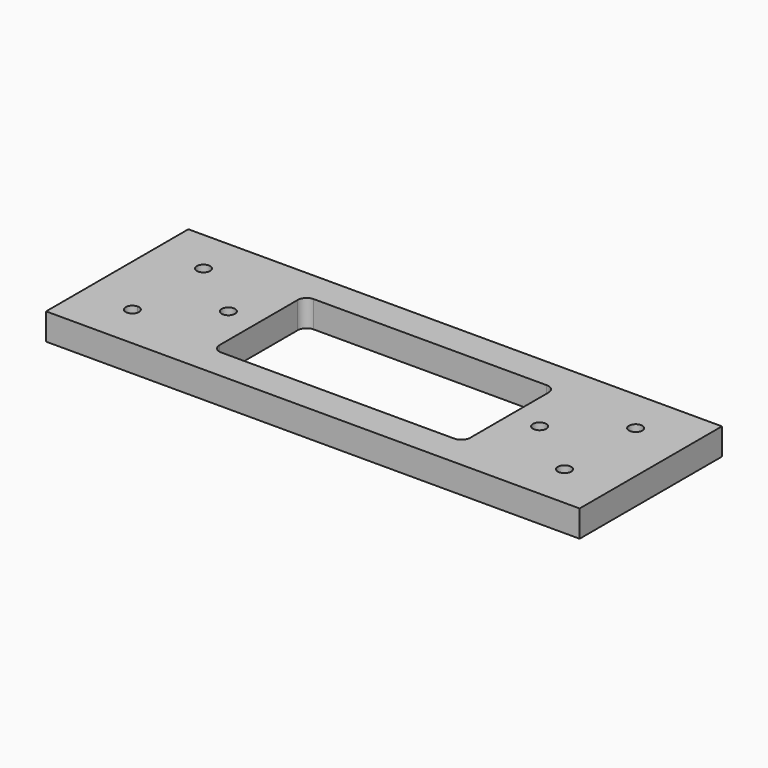
from build123d import *

# Parameters (mm, degrees)
F0_W     = 60
F0_H     = 20
F0_R     = 0.75
F1_DEPTH = 3


with BuildPart() as f1:
    # F0 (on Top) → F1 (new body)
    with BuildSketch(Plane.XY):
        Rectangle(F0_W, F0_H)
        with BuildLine():
            ThreePointArc((-23.55, -5), (-24.83033, -5.53033), (-24.3, -4.25))
            ThreePointArc((-24.3, -4.25), (-23.76967, -4.46967), (-23.55, -5))
        make_face(mode=Mode.SUBTRACT)
        with Locations((24.3, -5)):
            Circle(F0_R, mode=Mode.SUBTRACT)
        with Locations((-17.5, 0)):
            Circle(F0_R, mode=Mode.SUBTRACT)
        with BuildLine():
            ThreePointArc((-23.55, 5), (-23.76967, 4.46967), (-24.3, 4.25))
            ThreePointArc((-24.3, 4.25), (-24.83033, 5.53033), (-23.55, 5))
        make_face(mode=Mode.SUBTRACT)
        with BuildLine():
            ThreePointArc((-14.1, 5.5), (-13.807107, 6.207107), (-13.1, 6.5))
            Line((-13.1, 6.5), (13.1, 6.5))
            ThreePointArc((13.1, 6.5), (13.807107, 6.207107), (14.1, 5.5))
            Line((14.1, 5.5), (14.1, -5.5))
            ThreePointArc((14.1, -5.5), (13.807107, -6.207107), (13.1, -6.5))
            Line((13.1, -6.5), (-13.1, -6.5))
            ThreePointArc((-13.1, -6.5), (-13.807107, -6.207107), (-14.1, -5.5))
            Line((-14.1, -5.5), (-14.1, 5.5))
        make_face(mode=Mode.SUBTRACT)
        with Locations((17.5, 0)):
            Circle(F0_R, mode=Mode.SUBTRACT)
        with Locations((24.3, 5)):
            Circle(F0_R, mode=Mode.SUBTRACT)
    extrude(amount=F1_DEPTH)


solid = f1.part
